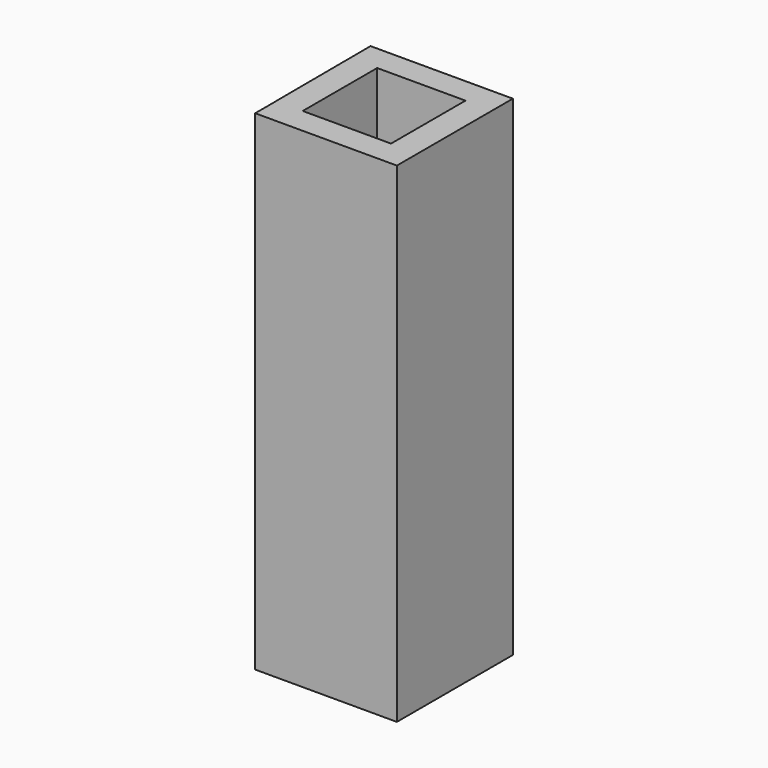
from build123d import *

# Parameters (mm, degrees)
F0_W     = 114.485607
F0_H     = 120.640039
F1_DEPTH = 635


with BuildPart() as f1:
    # F0 (on Top) → F1 (new body)
    with BuildSketch(Plane.XY):
        Polygon((-56.743354, 92.211917), (-92.026696, 92.211917), (-91.889496, 58.87264), (-91.393034, -61.767399), (-91.25337, -61.767399), (-91.25337, -95.705569), (92.477813, -95.705569), (92.477813, -61.767399), (92.477813, 58.87264), (92.477813, 92.211917), align=None)
        with Locations((0.49945, -1.44738)):
            Rectangle(F0_W, F0_H, mode=Mode.SUBTRACT)
    extrude(amount=F1_DEPTH)


solid = f1.part
